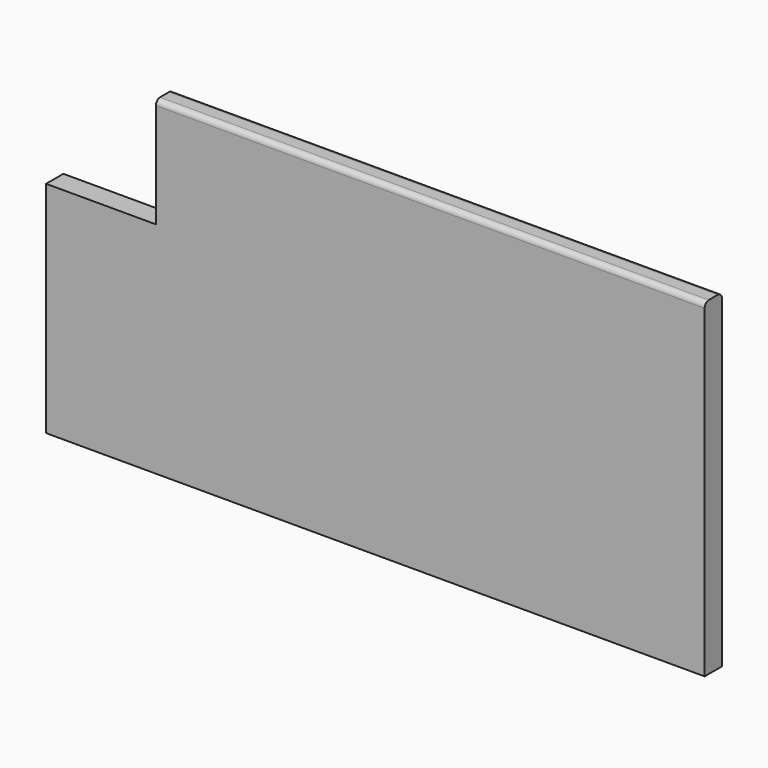
from build123d import *

# Parameters (mm, degrees)
F1_DEPTH = 25
F2_R     = 6
F3_R     = 6


with BuildPart() as f1:
    # F0 (on Front) → F1 (new body)
    with BuildSketch(Plane.XZ):
        Polygon((0, 381), (-635, 381), (-635, 254), (-762, 254), (-762, 0), (0, 0), align=None)
    extrude(amount=F1_DEPTH)

    # F2
    f2_edges = [f1.edges().sort_by_distance(p)[0] for p in [
        (-317.5, -25, 381),
    ]]
    fillet(f2_edges, radius=F2_R)

    # F3
    f3_edges = [f1.edges().sort_by_distance(p)[0] for p in [
        (-317.5, 0, 381),
    ]]
    fillet(f3_edges, radius=F3_R)


solid = f1.part
